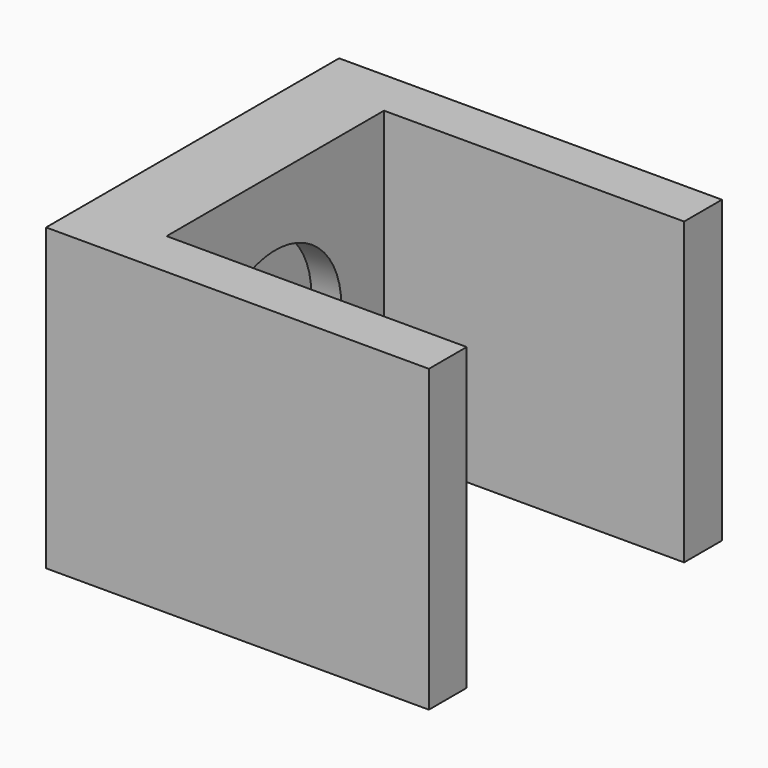
from build123d import *

# Parameters (mm, degrees)
F1_DEPTH = 25.4
F2_R     = 6.985
F2_R_2   = 3.81
F3_DEPTH = 2.54
F4_DEPTH = 7


with BuildPart() as f1:
    # F0 (on Top) → F1 (new body)
    with BuildSketch(Plane.XY):
        Polygon((-19.32979, -1.823446), (-19.32979, 21.176554), (6.07021, 21.176554), (6.07021, 25.176554), (-26.32979, 25.176554), (-26.32979, -5.823446), (6.07021, -5.823446), (6.07021, -1.823446), align=None)
    extrude(amount=F1_DEPTH)

    # F2 (on face) → F3 (cut)
    with BuildSketch(Plane.YZ.offset(-19.32979)):
        with Locations((9.676554, 12.7)):
            Circle(F2_R)
        with Locations((9.676554, 12.7)):
            Circle(F2_R_2, mode=Mode.SUBTRACT)
        with Locations((9.676554, 12.7)):
            Circle(F2_R_2)
    extrude(amount=-F3_DEPTH, mode=Mode.SUBTRACT)

    # F2 (on face) → F4 (cut, through all)
    with BuildSketch(Plane.YZ.offset(-19.32979)):
        with Locations((9.676554, 12.7)):
            Circle(F2_R_2)
    extrude(amount=-F4_DEPTH, mode=Mode.SUBTRACT)


solid = f1.part
